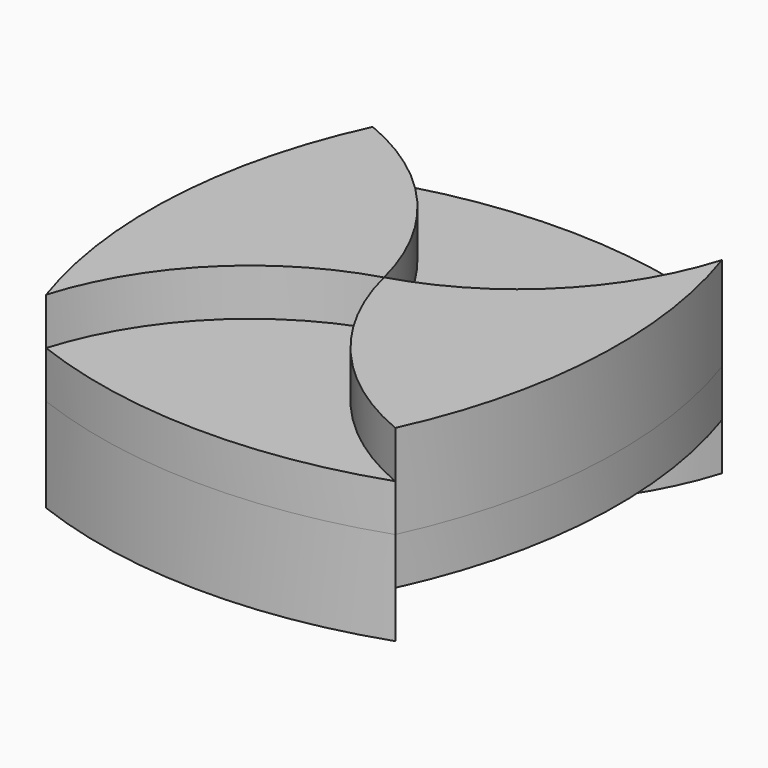
from build123d import *

# Parameters (mm, degrees)
F1_DEPTH = 10
F2_DEPTH = 5
F3_DEPTH = 10
F4_DEPTH = 5


with BuildPart() as f1:
    # F0 (on Top) → F1 (new body)
    with BuildSketch(Plane.XY):
        with BuildLine():
            ThreePointArc((-20, -20), (-12.504917, -7.495083), (0, 0))
            ThreePointArc((0, 0), (-6.375592, 12.407334), (-17.673086, 20.590043))
            ThreePointArc((-17.673086, 20.590043), (-22.724793, 0.517924), (-20, -20))
        make_face()
        with BuildLine():
            ThreePointArc((20, 20), (12.504917, 7.495083), (0, 0))
            ThreePointArc((0, 0), (6.375592, -12.407334), (17.673086, -20.590043))
            ThreePointArc((17.673086, -20.590043), (22.724793, -0.517924), (20, 20))
        make_face()
    extrude(amount=F1_DEPTH)


with BuildPart() as f2:
    # F1_face (on face) → F2 (new body)
    with BuildSketch(Plane(origin=(-13.928541, 2.882475, 0), x_dir=(1, 0, 0), z_dir=(0, 0, -1))):
        with BuildLine():
            ThreePointArc((13.928541, 2.882475), (1.423625, 10.377559), (-6.071459, 22.882475))
            ThreePointArc((-6.071459, 22.882475), (-8.796251, 2.364551), (-3.744544, -17.707568))
            ThreePointArc((-3.744544, -17.707568), (7.552949, -9.524859), (13.928541, 2.882475))
        make_face()
        with BuildLine():
            ThreePointArc((33.928541, -17.117525), (36.653334, 3.400399), (31.601627, 23.472518))
            ThreePointArc((31.601627, 23.472518), (20.304133, 15.289809), (13.928541, 2.882475))
            ThreePointArc((13.928541, 2.882475), (26.433458, -4.612608), (33.928541, -17.117525))
        make_face()
    extrude(amount=F2_DEPTH)


with BuildPart() as f3:
    # F0 (on Top) → F3 (new body)
    with BuildSketch(Plane.XY):
        with BuildLine():
            ThreePointArc((-17.673086, 20.590043), (-6.375592, 12.407334), (0, 0))
            ThreePointArc((0, 0), (12.504917, 7.495083), (20, 20))
            ThreePointArc((20, 20), (1.215559, 23.621626), (-17.673086, 20.590043))
        make_face()
        with BuildLine():
            ThreePointArc((17.673086, -20.590043), (6.375592, -12.407334), (0, 0))
            ThreePointArc((0, 0), (-12.504917, -7.495083), (-20, -20))
            ThreePointArc((-20, -20), (-1.215559, -23.621626), (17.673086, -20.590043))
        make_face()
    extrude(amount=-F3_DEPTH)


with BuildPart() as f4:
    # F0 (on Top) → F4 (new body)
    with BuildSketch(Plane.XY):
        with BuildLine():
            ThreePointArc((-17.673086, 20.590043), (-6.375592, 12.407334), (0, 0))
            ThreePointArc((0, 0), (12.504917, 7.495083), (20, 20))
            ThreePointArc((20, 20), (1.215559, 23.621626), (-17.673086, 20.590043))
        make_face()
        with BuildLine():
            ThreePointArc((17.673086, -20.590043), (6.375592, -12.407334), (0, 0))
            ThreePointArc((0, 0), (-12.504917, -7.495083), (-20, -20))
            ThreePointArc((-20, -20), (-1.215559, -23.621626), (17.673086, -20.590043))
        make_face()
    extrude(amount=F4_DEPTH)


solid = Compound([f1.part, f2.part, f3.part, f4.part])
